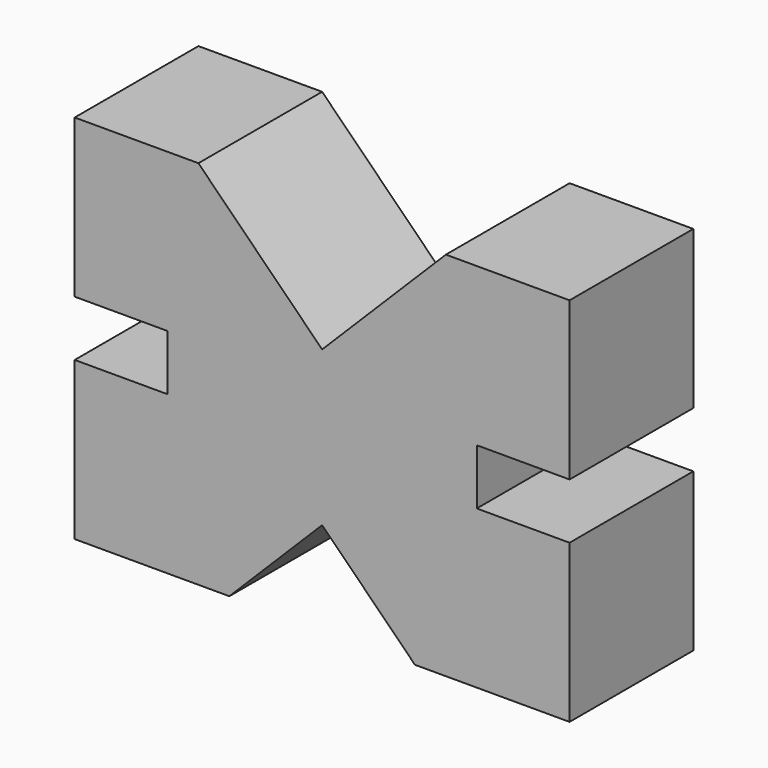
from build123d import *

# Parameters (mm, degrees)
F0_W          = 80
F0_H          = 60
F1_DEPTH      = 12.5
F2_W          = 15
F2_H          = 9
F3_DEPTH      = 12.501
F3_DEPTH_BACK = 12.501


with BuildPart() as f1:
    # F0 (on Front) → F1 (new body, symmetric)
    with BuildSketch(Plane.XZ):
        with Locations((40, 30)):
            Rectangle(F0_W, F0_H)
    extrude(amount=F1_DEPTH, both=True)

    # F2 (on Front) → F3 (cut, two sides)
    with BuildSketch(Plane.XZ) as f3_sk:
        with Locations((7.5, 30)):
            Rectangle(F2_W, F2_H)
        with Locations((72.5, 30)):
            Rectangle(F2_W, F2_H)
        Polygon((40, 40), (60, 60), (20, 60), align=None)
        Polygon((40, 15), (25, 0), (55, 0), align=None)
    extrude(amount=-F3_DEPTH, mode=Mode.SUBTRACT)
    extrude(f3_sk.sketch, amount=F3_DEPTH_BACK, mode=Mode.SUBTRACT)


solid = f1.part
